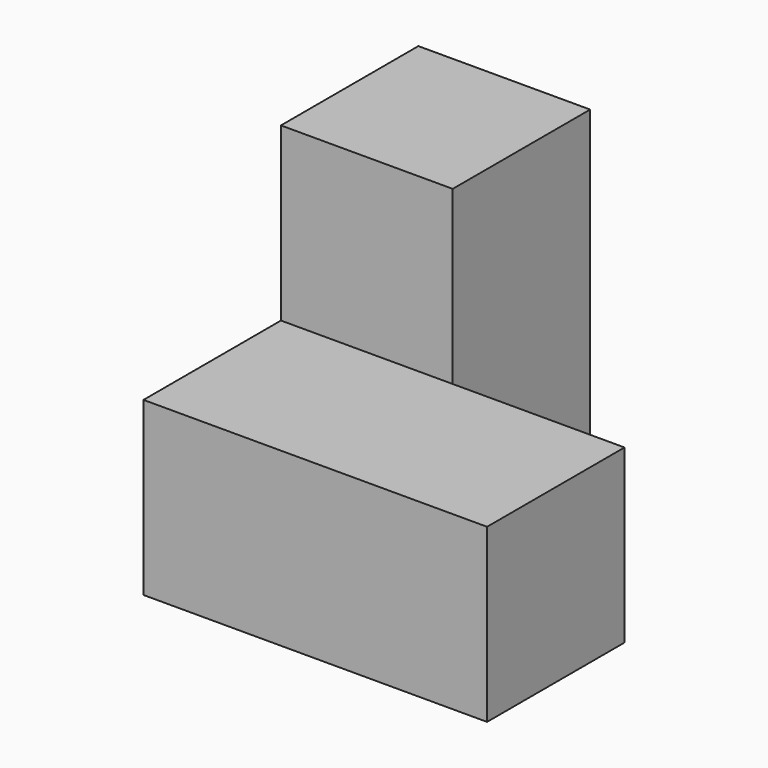
from build123d import *

# Parameters (mm, degrees)
F0_W     = 25.4
F0_H     = 25.4
F1_DEPTH = 25.4
F2_W     = 25.4
F2_H     = 25.4
F3_DEPTH = 25.4
F4_W     = 25.4
F4_H     = 25.4
F5_DEPTH = 25.4
F6_W     = 25.4
F6_H     = 25.4
F7_DEPTH = 25.4


with BuildPart() as f1:
    # F0 (on Front) → F1 (new body)
    with BuildSketch(Plane.XZ):
        with Locations((-33.807123, 19.925882)):
            Rectangle(F0_W, F0_H)
    extrude(amount=F1_DEPTH)

    # F2 (on face) → F3 (join)
    with BuildSketch(Plane.YZ.offset(-21.107123)):
        with Locations((-12.7, 19.925882)):
            Rectangle(F2_W, F2_H)
    extrude(amount=F3_DEPTH)

    # F4 (on face) → F5 (join)
    with BuildSketch(Plane(origin=(0, 0, 0), x_dir=(-1, 0, 0), z_dir=(0, 1, 0))):
        with Locations((33.807123, 19.925882)):
            Rectangle(F4_W, F4_H)
    extrude(amount=F5_DEPTH)

    # F6 (on face) → F7 (join)
    with BuildSketch(Plane.XY.offset(32.625882)):
        with Locations((-33.807123, 12.7)):
            Rectangle(F6_W, F6_H)
    extrude(amount=F7_DEPTH)


solid = f1.part
